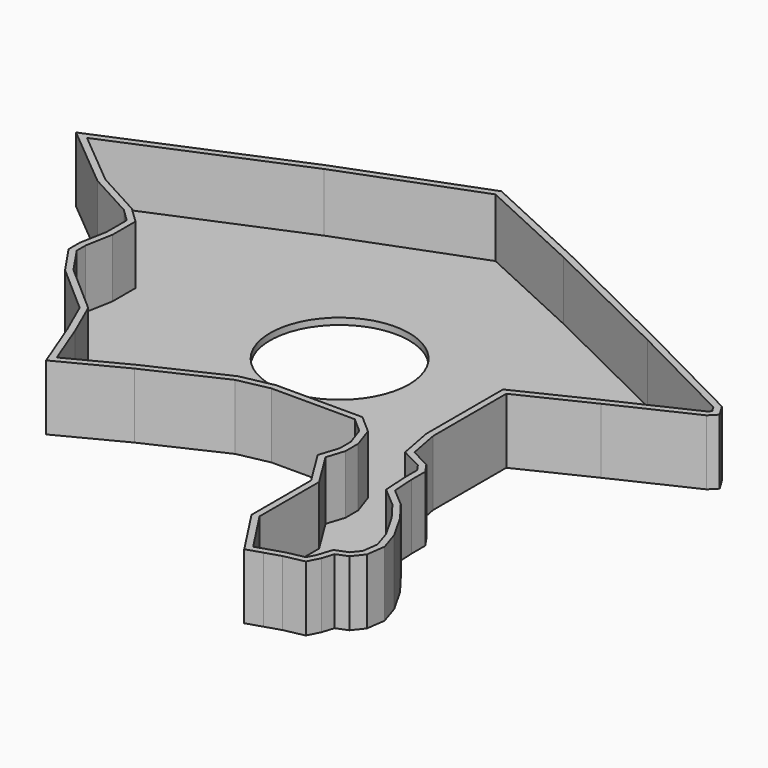
from build123d import *

# Parameters (mm, degrees)
F1_DEPTH = 10
F2_T     = -1
F3_R     = 10.6640979673
F4_DEPTH = 25


with BuildPart() as f1:
    # F0 (on Top) → F1 (new body)
    with BuildSketch(Plane.XY):
        Polygon((-31.0254581273, 32.8216664493), (-59.7648322582, 20.7380689681), (-49.9673187733, 12.5734750181), (-42.7824743092, 8.6544696242), (-40.7788045704, 6.7279691546), (-40.7788045704, 2.8554322198), (-41.5555574, -1.3681541895), (-41.5555574, -3.4556735773), (-38.4888425469, -7.9726679251), (-31.0126114637, -14.5143707892), (-28.6823585629, -19.8181271553), (-26.0819279657, -26.5176091343), (-25.6298921539, -27.6821877156), (-16.0601455718, -22.7309465408), (-4.7972491011, -17.4878742546), (0, -16.4924804121), (12.7747104677, -16.4924804121), (15.1070067659, -18.5332398809), (16.0779468715, -21.3716309518), (16.0779468715, -23.5076975077), (15.1070067659, -26.5176091343), (18.6152737588, -32.1685001254), (18.6152737588, -43.598935008), (23.5140342265, -51.1103607714), (25.8403085172, -50.369720906), (28.2073356211, -49.6192015707), (31.2671549618, -48.984143883), (32.1908704937, -47.136709094), (32.7681936324, -45.3470014036), (34.5001667738, -44.6542128921), (35.8280129731, -42.9799742997), (36.2321399152, -40.0933548808), (35.2506898344, -37.0335392654), (33.0568552017, -33.1654660404), (30.863026157, -30.2788466215), (28.0862059444, -27.9229115695), (27.8792269528, -24.5023760945), (27.8792269528, -21.8466855586), (26.8400404602, -20.3456450254), (23.7224902958, -18.7291372567), (22.8264033794, -14.0075832605), (22.8264033794, 0), (33.3115458488, 5.0620483235), (45.0685583055, 10.6139723212), (46.1755990982, 11.7365671322), (45.0685583055, 13.5532263666), (27.7596209198, 22.3709885031), (6.5316753462, 32.8216664493), (-10.4506798089, 40.6596809626), align=None)
    extrude(amount=F1_DEPTH)

    # F2
    f2_openings = [f1.faces().sort_by_distance(p)[0] for p in [
        (-4.783125, 4.353197, 10),
    ]]
    offset(amount=F2_T, openings=f2_openings, kind=Kind.INTERSECTION)

    # F3 (on face) → F4 (cut)
    with BuildSketch(Plane.XY.offset(1)):
        with Locations((-9.2489561066, 8.1327119842)):
            Circle(F3_R)
    extrude(amount=-F4_DEPTH, mode=Mode.SUBTRACT)


solid = f1.part
